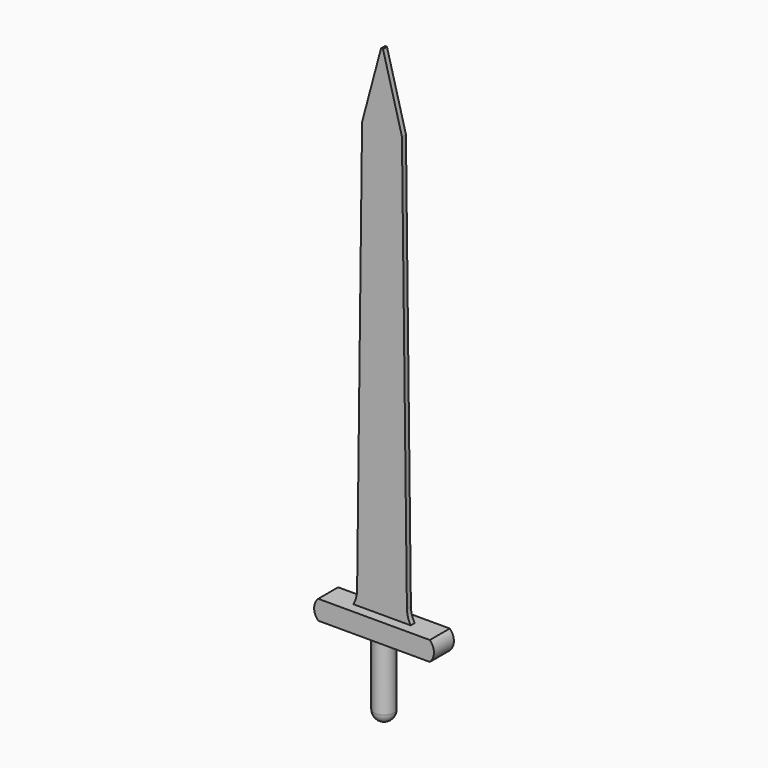
from build123d import *

# Parameters (mm, degrees)
F1_DEPTH = 5
F2_DEPTH = 25
F3_R     = 20
F4_DEPTH = 150
F5_R     = 20


with BuildPart() as f1:
    # F0 (on Front) → F1 (new body, symmetric)
    with BuildSketch(Plane.XZ):
        with BuildLine():
            Line((2, 1000), (-2, 1000))
            Line((-2, 1000), (-40, 857.608259))
            Line((-40, 857.608259), (-50, 26.185824))
            ThreePointArc((-50, 26.185824), (-52.113169, 12.611339), (-57.561677, 0))
            Line((-57.561677, 0), (0, 0))
            Line((0, 0), (57.561677, 0))
            ThreePointArc((57.561677, 0), (52.113169, 12.611339), (50, 26.185824))
            Line((50, 26.185824), (40, 857.608259))
            Line((40, 857.608259), (2, 1000))
        make_face()
    extrude(amount=F1_DEPTH, both=True)


with BuildPart() as f2:
    # F0 (on Front) → F2 (new body, symmetric)
    with BuildSketch(Plane.XZ):
        with BuildLine():
            Line((0, 0), (-57.561677, 0))
            Line((-57.561677, 0), (-60, 0))
            Line((-60, 0), (-112.018086, 0))
            ThreePointArc((-112.018086, 0), (-120.223236, -19.384213), (-112.018086, -38.768426))
            Line((-112.018086, -38.768426), (0, -38.768426))
            Line((0, -38.768426), (112.018086, -38.768426))
            ThreePointArc((112.018086, -38.768426), (120.223236, -19.384213), (112.018086, 0))
            Line((112.018086, 0), (60, 0))
            Line((60, 0), (57.561677, 0))
            Line((57.561677, 0), (0, 0))
        make_face()
    extrude(amount=F2_DEPTH, both=True)


with BuildPart() as f4:
    # F3 (on face) → F4 (new body)
    with BuildSketch(Plane(origin=(0, 0, -38.768426), x_dir=(1, 0, 0), z_dir=(0, 0, -1))):
        Circle(F3_R)
    extrude(amount=F4_DEPTH)

    # F5
    f5_edges = [f4.edges().sort_by_distance(p)[0] for p in [
        (-20, 0, -188.768426),
    ]]
    fillet(f5_edges, radius=F5_R)


solid = Compound([f1.part, f2.part, f4.part])
